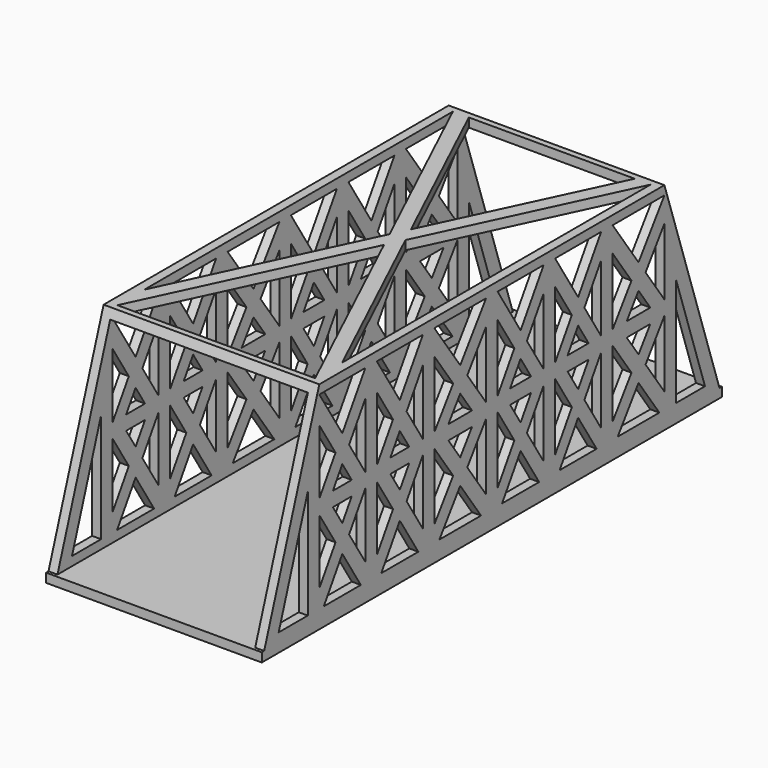
from build123d import *

# Parameters (mm, degrees)
F1_DEPTH  = 38.1
F3_DEPTH  = 76.2
F4_W      = 69.85
F4_H      = 69.85
F5_DEPTH  = 127
F7_DEPTH  = 3.175
F8_W      = 6.4131235046
F8_H      = 3.175
F9_DEPTH  = 76.2
F10_W     = 3.175
F10_H     = 190.3737529909
F11_DEPTH = 3.175


with BuildPart() as f1:
    # F0 (on Right) → F1 (new body, symmetric)
    with BuildSketch(Plane.YZ):
        Polygon((-76.2, 38.1), (-101.6, -38.1), (101.6, -38.1), (76.2, 38.1), align=None)
    extrude(amount=F1_DEPTH, both=True)

    # F2 (on face) → F3 (cut)
    with BuildSketch(Plane.YZ.offset(38.1)):
        Polygon((-95.1868764954, -34.925), (-81.28, -34.925), (-81.28, 6.7956294863), align=None)
        Polygon((-76.2, -34.925), (-55.88, -34.925), (-66.04, -18.7325), align=None)
        Polygon((-76.2, -2.54), (-76.2, -25.3669843031), (-69.0385931598, -13.9534921515), align=None)
        Polygon((-66.04, -9.1744843031), (-61.8771863196, -2.54), (-70.2028136804, -2.54), align=None)
        Polygon((-63.0414068402, -13.9534921515), (-55.88, -25.3669843031), (-55.88, -2.54), align=None)
        Polygon((-70.2028136804, 2.54), (-61.8771863196, 2.54), (-66.04, 9.1744843031), align=None)
        Polygon((-66.04, 18.7325), (-55.88, 34.925), (-76.2, 34.925), align=None)
        Polygon((-76.2, 25.3669843031), (-76.2, 2.54), (-69.0385931598, 13.9534921515), align=None)
        Polygon((-63.0414068402, 13.9534921515), (-55.88, 2.54), (-55.88, 25.3669843031), align=None)
        Polygon((-40.64, 18.7325), (-30.48, 34.925), (-50.8, 34.925), align=None)
        Polygon((-50.8, 25.3669843031), (-50.8, 2.54), (-43.6385931598, 13.9534921515), align=None)
        Polygon((-37.6414068402, 13.9534921515), (-30.48, 2.54), (-30.48, 25.3669843031), align=None)
        Polygon((-44.8028136804, 2.54), (-36.4771863196, 2.54), (-40.64, 9.1744843031), align=None)
        Polygon((-40.64, -9.1744843031), (-36.4771863196, -2.54), (-44.8028136804, -2.54), align=None)
        Polygon((-50.8, -2.54), (-50.8, -25.3669843031), (-43.6385931598, -13.9534921515), align=None)
        Polygon((-37.6414068402, -13.9534921515), (-30.48, -25.3669843031), (-30.48, -2.54), align=None)
        Polygon((-50.8, -34.925), (-30.48, -34.925), (-40.64, -18.7325), align=None)
        Polygon((-25.4, 26.1160039669), (-25.4, 2.54), (-17.0790574234, 14.3280019835), align=None)
        Polygon((-13.97, 18.7325), (-2.54, 34.925), (-25.4, 34.925), align=None)
        Polygon((-10.8609425766, 14.3280019835), (-2.54, 2.54), (-2.54, 26.1160039669), align=None)
        Polygon((-19.1818851531, 2.54), (-8.7581148469, 2.54), (-13.97, 9.9235039669), align=None)
        Polygon((-13.97, -9.9235039669), (-8.7581148469, -2.54), (-19.1818851531, -2.54), align=None)
        Polygon((-25.4, -2.54), (-25.4, -26.1160039669), (-17.0790574234, -14.3280019835), align=None)
        Polygon((-10.8609425766, -14.3280019835), (-2.54, -26.1160039669), (-2.54, -2.54), align=None)
        Polygon((-25.4, -34.925), (-2.54, -34.925), (-13.97, -18.7325), align=None)
        Polygon((2.54, 26.1160039669), (2.54, 2.54), (9.9363934014, 14.3280019835), align=None)
        Polygon((12.7, 18.7325), (22.86, 34.925), (2.54, 34.925), align=None)
        Polygon((15.4636065986, 14.3280019835), (22.86, 2.54), (22.86, 26.1160039669), align=None)
        Polygon((8.0672131972, 2.54), (17.3327868028, 2.54), (12.7, 9.9235039669), align=None)
        Polygon((12.7, -9.9235039669), (17.3327868028, -2.54), (8.0672131972, -2.54), align=None)
        Polygon((2.54, -2.54), (2.54, -26.1160039669), (9.9363934014, -14.3280019835), align=None)
        Polygon((15.4636065986, -14.3280019835), (22.86, -26.1160039669), (22.86, -2.54), align=None)
        Polygon((2.54, -34.925), (22.86, -34.925), (12.7, -18.7325), align=None)
        Polygon((27.94, 26.1160039669), (27.94, 2.54), (35.3363934014, 14.3280019835), align=None)
        Polygon((38.1, 18.7325), (48.26, 34.925), (27.94, 34.925), align=None)
        Polygon((40.8636065986, 14.3280019835), (48.26, 2.54), (48.26, 26.1160039669), align=None)
        Polygon((33.4672131972, 2.54), (42.7327868028, 2.54), (38.1, 9.9235039669), align=None)
        Polygon((38.1, -9.9235039669), (42.7327868028, -2.54), (33.4672131972, -2.54), align=None)
        Polygon((27.94, -2.54), (27.94, -26.1160039669), (35.3363934014, -14.3280019835), align=None)
        Polygon((40.8636065986, -14.3280019835), (48.26, -26.1160039669), (48.26, -2.54), align=None)
        Polygon((27.94, -34.925), (48.26, -34.925), (38.1, -18.7325), align=None)
        Polygon((53.34, 26.1160039669), (53.34, 2.54), (61.6609425766, 14.3280019835), align=None)
        Polygon((64.77, 18.7325), (76.2, 34.925), (53.34, 34.925), align=None)
        Polygon((67.8790574234, 14.3280019835), (76.2, 2.54), (76.2, 26.1160039669), align=None)
        Polygon((59.5581148469, 2.54), (69.9818851531, 2.54), (64.77, 9.9235039669), align=None)
        Polygon((64.77, -9.9235039669), (69.9818851531, -2.54), (59.5581148469, -2.54), align=None)
        Polygon((53.34, -2.54), (53.34, -26.1160039669), (61.6609425766, -14.3280019835), align=None)
        Polygon((53.34, -34.925), (76.2, -34.925), (64.77, -18.7325), align=None)
        Polygon((67.8790574234, -14.3280019835), (76.2, -26.1160039669), (76.2, -2.54), align=None)
        Polygon((95.1868764954, -34.925), (81.28, 6.7956294863), (81.28, -34.925), align=None)
    extrude(amount=-F3_DEPTH, mode=Mode.SUBTRACT)

    # F4 (on Front) → F5 (cut, symmetric)
    with BuildSketch(Plane.XZ):
        Rectangle(F4_W, F4_H)
    extrude(amount=F5_DEPTH, both=True, mode=Mode.SUBTRACT)

    # F6 (on face) → F7 (cut)
    with BuildSketch(Plane.XY.offset(38.1)):
        Polygon((-34.925, 74.0833333333), (-34.925, -62.1701745863), (-2.8081017047, 5.9565793735), align=None)
        Polygon((0, 11.913158747), (29.3087965907, 74.0833333333), (-29.3087965907, 74.0833333333), align=None)
        Polygon((2.8081017047, 5.9565793735), (34.925, -62.1701745863), (34.925, 74.0833333333), align=None)
        Polygon((-34.925, -74.0833333333), (34.925, -74.0833333333), (0, 0), align=None)
    extrude(amount=-F7_DEPTH, mode=Mode.SUBTRACT)

    # F8 (on face) → F9 (join)
    with BuildSketch(Plane.YZ.offset(38.1)):
        with Locations((-98.3934382477, -36.5125)):
            Rectangle(F8_W, F8_H)
        with Locations((98.3934382477, -36.5125)):
            Rectangle(F8_W, F8_H)
    extrude(amount=-F9_DEPTH)

    # F10 (on face) → F11 (join)
    with BuildSketch(Plane.XY.offset(-34.925)):
        with Locations((36.5125, 0)):
            Rectangle(F10_W, F10_H)
        with Locations((-36.5125, 0)):
            Rectangle(F10_W, F10_H)
    extrude(amount=F11_DEPTH)


solid = f1.part
